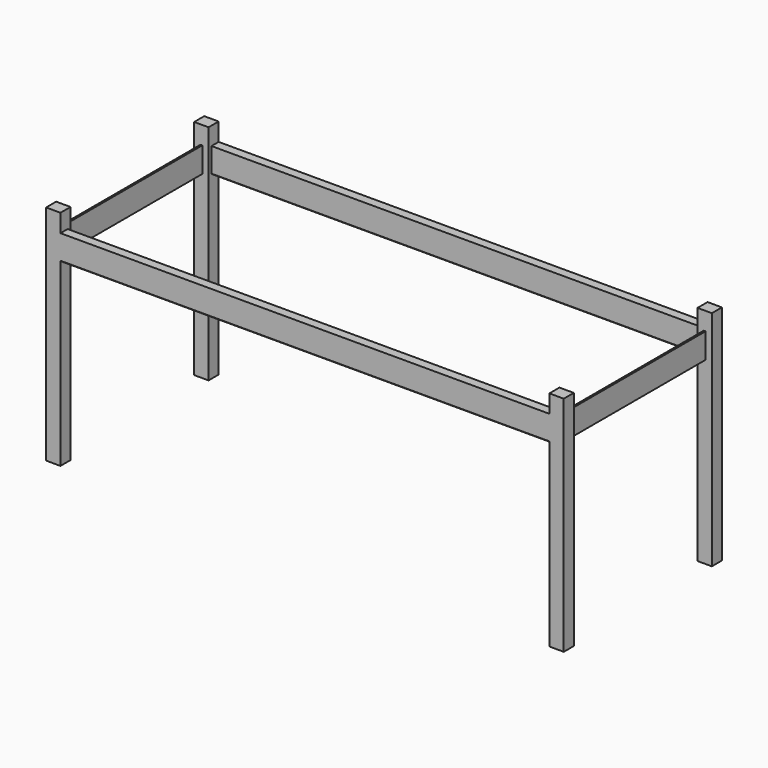
from build123d import *

# Parameters (mm, degrees)
PAD_DEPTH    = 140
SKETCH001_W  = 80
SKETCH001_H  = 70
PAD001_DEPTH = 100
SKETCH002_W  = 80
SKETCH002_H  = 70
PAD002_DEPTH = 1000
CHAMFER_SIZE = 5


with BuildPart() as part:
    # Sketch → Pad (new body)
    with BuildSketch(Plane.XY):
        Polygon((-1440, -550), (1440, -550), (1440, -480), (1405, -480), (1405, 480), (1440, 480), (1440, 550), (-1440, 550), (-1440, 480), (-1405, 480), (-1405, -480), (-1440, -480), align=None)
        Polygon((-1360, -500), (1360, -500), (1360, -480), (1395, -480), (1395, 480), (1360, 480), (1360, 500), (-1360, 500), (-1360, 480), (-1395, 480), (-1395, -480), (-1360, -480), align=None, mode=Mode.SUBTRACT)
    extrude(amount=PAD_DEPTH)

    # Sketch001 (on Face26 of Pad) → Pad001 (join)
    with BuildSketch(Plane.XY.offset(140)):
        with Locations((-1400, 515)):
            Rectangle(SKETCH001_W, SKETCH001_H)
        with Locations((-1400, -515)):
            Rectangle(SKETCH001_W, SKETCH001_H)
        with Locations((1400, -515)):
            Rectangle(SKETCH001_W, SKETCH001_H)
        with Locations((1400, 515)):
            Rectangle(SKETCH001_W, SKETCH001_H)
    extrude(amount=PAD001_DEPTH)

    # Sketch002 (on Face4 of Pad001) → Pad002 (join)
    with BuildSketch(Plane(origin=(0, 0, 0), x_dir=(1, 0, 0), z_dir=(0, 0, -1))):
        with Locations((1400, 515)):
            Rectangle(SKETCH002_W, SKETCH002_H)
        with Locations((1400, -515)):
            Rectangle(SKETCH002_W, SKETCH002_H)
        with Locations((-1400, -515)):
            Rectangle(SKETCH002_W, SKETCH002_H)
        with Locations((-1400, 515)):
            Rectangle(SKETCH002_W, SKETCH002_H)
    extrude(amount=PAD002_DEPTH)

    # Chamfer
    chamfer_edges = [part.edges().sort_by_distance(p)[0] for p in [
        (0, 550, 0),
        (0, 500, 0),
        (0, -500, 0),
        (0, -550, 0),
    ]]
    chamfer(chamfer_edges, length=CHAMFER_SIZE)


solid = part.part
